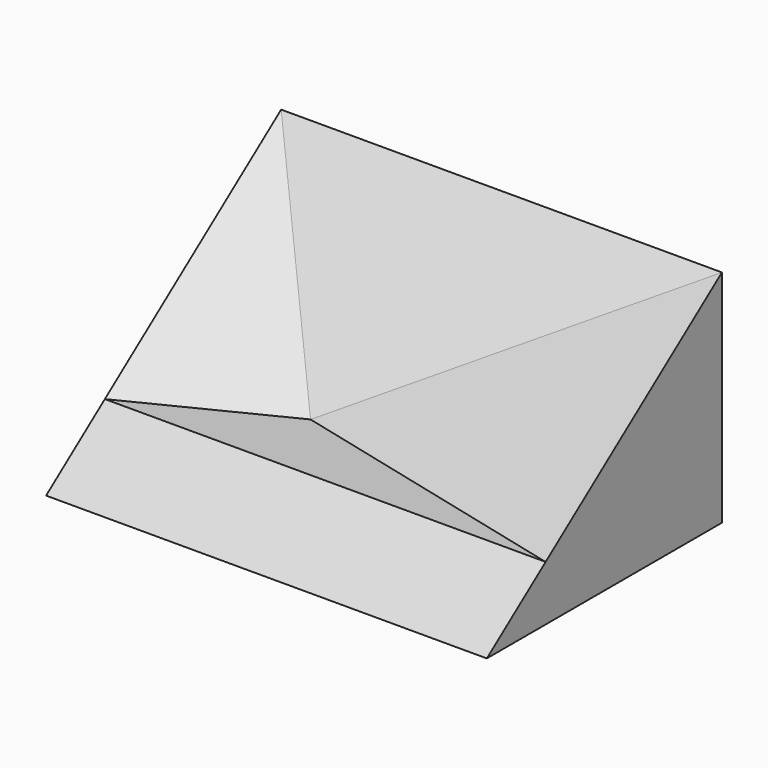
from build123d import *

# Parameters (mm, degrees)
F1_DEPTH  = 6
F4_DEPTH  = 25
F7_DEPTH  = 25
F10_DEPTH = 25
F13_DEPTH = 25


with BuildPart() as f1:
    # F0 (on Right) → F1 (new body)
    with BuildSketch(Plane.YZ):
        Polygon((4, 3), (0, 0), (4, 0), align=None)
    extrude(amount=F1_DEPTH)

    # F3 (on offset) → F4 (cut)
    with BuildSketch(Plane.XY.offset(0.75)):
        Polygon((2, 2), (0, 1), (6, 1), align=None)
    extrude(amount=F4_DEPTH, mode=Mode.SUBTRACT)

    # F6 (on 3pt) → F7 (cut)
    with BuildSketch(Plane(origin=(0.1320293399, 0.5281173594, -0.7041564792), x_dir=(0.9889363529, -0.0890042718, 0.1186723623), z_dir=(0.1483404529, 0.5933618117, -0.7911490823))):
        Polygon((5.9336181172, -1.25), (1.888868434, -2.05), (5.9336181172, -5), (6.7079407163, -1.000438584), align=None)
    extrude(amount=-F7_DEPTH, mode=Mode.SUBTRACT)

    # F9 (on 3pt) → F10 (cut)
    with BuildSketch(Plane(origin=(0, 0, 0), x_dir=(0.9578262852, 0.1724087313, -0.2298783085), z_dir=(-0.2873478856, 0.5746957711, -0.7662610282))):
        Polygon((0, -1.25), (0, -5), (2.0880613018, -2.05), align=None)
    extrude(amount=-F10_DEPTH, mode=Mode.SUBTRACT)

    # F12 (on 3pt) → F13 (cut)
    with BuildSketch(Plane(origin=(0, 0.7448275862, -0.6620689655), x_dir=(-1, 0, 0), z_dir=(0, 0.7474093187, -0.6643638388))):
        Polygon((-2, 1.8892846667), (0, 4.8996833114), (-6, 4.8996833114), align=None)
    extrude(amount=-F13_DEPTH, mode=Mode.SUBTRACT)


solid = f1.part
